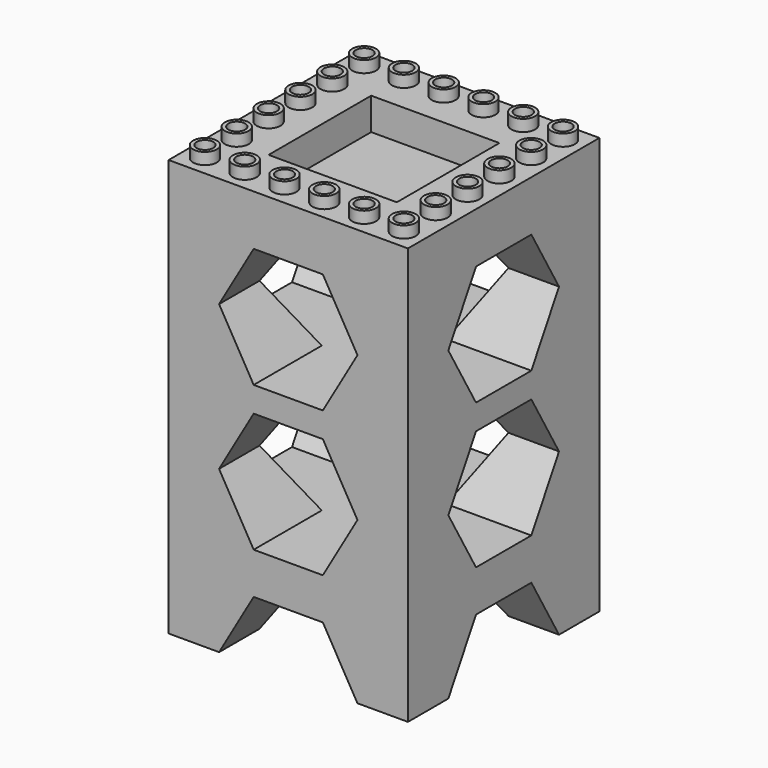
from build123d import *

# Parameters (mm, degrees)
F0_W      = 94.8
F0_H      = 94.8
F0_W_2    = 50.8
F0_H_2    = 50.8
F1_DEPTH  = 165.1
F2_DEPTH  = 12.7
F4_DEPTH  = 101.3
F6_DEPTH  = 114
F8_DEPTH  = 110
F9_DEPTH  = 114
F11_DEPTH = 115
F12_R     = 4.7
F12_R_2   = 3.3
F13_DEPTH = 4.6


with BuildPart() as f1:
    # F0 (on Top) → F1 (new body)
    with BuildSketch(Plane.XY):
        Rectangle(F0_W, F0_H)
        Rectangle(F0_W_2, F0_H_2, mode=Mode.SUBTRACT)
        Rectangle(F0_W_2, F0_H_2)
    extrude(amount=-F1_DEPTH)

    # F0 (on Top) → F2 (cut)
    with BuildSketch(Plane.XY):
        Rectangle(F0_W_2, F0_H_2)
    extrude(amount=-F2_DEPTH, mode=Mode.SUBTRACT)

    # F3 (on face) → F4 (cut)
    with BuildSketch(Plane.YZ.offset(47.4)):
        Polygon((0, -141.370904), (-13.7, -141.370904), (-27.4, -165.1), (-13.7, -188.829096), (13.7, -188.829096), (27.4, -165.1), (13.7, -141.370904), align=None)
    extrude(amount=-F4_DEPTH, mode=Mode.SUBTRACT)

    # F5 (on face) → F6 (cut)
    with BuildSketch(Plane.XZ.offset(47.4)):
        Polygon((13.7, -141.370904), (-13.7, -141.370904), (-27.4, -165.1), (27.4, -165.1), align=None)
    extrude(amount=-F6_DEPTH, mode=Mode.SUBTRACT)

    # F7 (on face) → F8 (cut)
    with BuildSketch(Plane(origin=(0, 47.4, 0), x_dir=(-1, 0, 0), z_dir=(0, 1, 0))):
        Polygon((13.7, -20), (-13.7, -20), (-27.4, -43.729096), (-13.7, -67.458192), (13.7, -67.458192), (27.4, -43.729096), align=None)
    extrude(amount=-F8_DEPTH, mode=Mode.SUBTRACT)

    # F7 (on face) → F9 (cut)
    with BuildSketch(Plane(origin=(0, 47.4, 0), x_dir=(-1, 0, 0), z_dir=(0, 1, 0))):
        Polygon((13.7, -77.458192), (-13.7, -77.458192), (-27.4, -101.187288), (-13.7, -124.916384), (13.7, -124.916384), (27.4, -101.187288), align=None)
    extrude(amount=-F9_DEPTH, mode=Mode.SUBTRACT)

    # F10 (on face) → F11 (cut)
    with BuildSketch(Plane.YZ.offset(47.4)):
        Polygon((13.7, -20), (-13.7, -20), (-27.4, -43.729096), (-13.7, -67.458192), (13.7, -67.458192), (27.4, -43.729096), align=None)
        Polygon((13.7, -77.458192), (-13.7, -77.458192), (-27.4, -101.187288), (-13.7, -124.916384), (13.7, -124.916384), (27.4, -101.187288), align=None)
    extrude(amount=-F11_DEPTH, mode=Mode.SUBTRACT)

    # F12 (on face) → F13 (join)
    with BuildSketch(Plane.XY):
        with Locations((-39.4, 39.4)):
            Circle(F12_R)
        with Locations((-39.4, 39.4)):
            Circle(F12_R_2, mode=Mode.SUBTRACT)
        with Locations((-39.4, 23.64)):
            Circle(F12_R)
        with Locations((-39.4, 23.64)):
            Circle(F12_R_2, mode=Mode.SUBTRACT)
        with Locations((-39.4, 7.88)):
            Circle(F12_R)
        with Locations((-39.4, 7.88)):
            Circle(F12_R_2, mode=Mode.SUBTRACT)
        with Locations((-39.4, -7.88)):
            Circle(F12_R)
        with Locations((-39.4, -7.88)):
            Circle(F12_R_2, mode=Mode.SUBTRACT)
        with Locations((-39.4, -23.64)):
            Circle(F12_R)
        with Locations((-39.4, -23.64)):
            Circle(F12_R_2, mode=Mode.SUBTRACT)
        with Locations((-39.4, -39.4)):
            Circle(F12_R)
        with Locations((-39.4, -39.4)):
            Circle(F12_R_2, mode=Mode.SUBTRACT)
        with Locations((-23.64, -39.4)):
            Circle(F12_R)
        with Locations((-23.64, -39.4)):
            Circle(F12_R_2, mode=Mode.SUBTRACT)
        with Locations((-7.88, -39.4)):
            Circle(F12_R)
        with Locations((-7.88, -39.4)):
            Circle(F12_R_2, mode=Mode.SUBTRACT)
        with Locations((-23.64, 39.4)):
            Circle(F12_R)
        with Locations((-23.64, 39.4)):
            Circle(F12_R_2, mode=Mode.SUBTRACT)
        with Locations((-7.88, 39.4)):
            Circle(F12_R)
        with Locations((-7.88, 39.4)):
            Circle(F12_R_2, mode=Mode.SUBTRACT)
        with Locations((7.88, 39.4)):
            Circle(F12_R)
        with Locations((7.88, 39.4)):
            Circle(F12_R_2, mode=Mode.SUBTRACT)
        with Locations((23.64, 39.4)):
            Circle(F12_R)
        with Locations((23.64, 39.4)):
            Circle(F12_R_2, mode=Mode.SUBTRACT)
        with Locations((39.4, 39.4)):
            Circle(F12_R)
        with Locations((39.4, 39.4)):
            Circle(F12_R_2, mode=Mode.SUBTRACT)
        with Locations((39.4, 23.64)):
            Circle(F12_R)
        with Locations((39.4, 23.64)):
            Circle(F12_R_2, mode=Mode.SUBTRACT)
        with Locations((39.4, 7.88)):
            Circle(F12_R)
        with Locations((39.4, 7.88)):
            Circle(F12_R_2, mode=Mode.SUBTRACT)
        with Locations((39.4, -7.88)):
            Circle(F12_R)
        with Locations((39.4, -7.88)):
            Circle(F12_R_2, mode=Mode.SUBTRACT)
        with Locations((39.4, -23.64)):
            Circle(F12_R)
        with Locations((39.4, -23.64)):
            Circle(F12_R_2, mode=Mode.SUBTRACT)
        with Locations((39.4, -39.4)):
            Circle(F12_R)
        with Locations((39.4, -39.4)):
            Circle(F12_R_2, mode=Mode.SUBTRACT)
        with Locations((23.64, -39.4)):
            Circle(F12_R)
        with Locations((23.64, -39.4)):
            Circle(F12_R_2, mode=Mode.SUBTRACT)
        with Locations((7.88, -39.4)):
            Circle(F12_R)
        with Locations((7.88, -39.4)):
            Circle(F12_R_2, mode=Mode.SUBTRACT)
    extrude(amount=F13_DEPTH)


solid = f1.part
